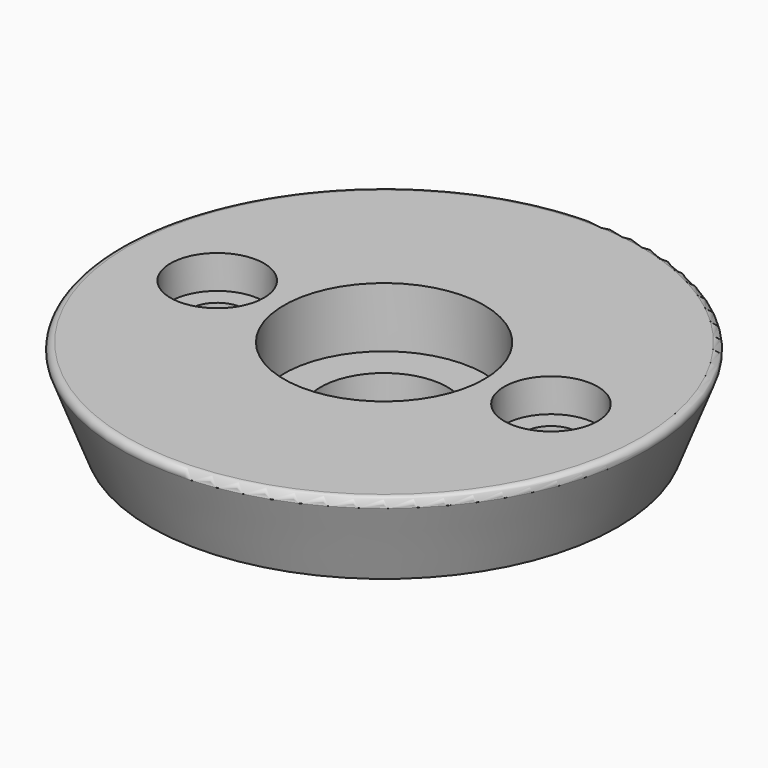
from build123d import *

# Parameters (mm, degrees)
SKETCH_R        = 17.5
SKETCH001_R     = 20
SKETCH002_R     = 4.75
POCKET_DEPTH    = 6.501
SKETCH003_R     = 2
POCKET001_DEPTH = 6.501
SKETCH004_R     = 3.5
POCKET002_DEPTH = 2.5
FILLET_R        = 0.5
SKETCH005_R     = 7.5
POCKET003_DEPTH = 4.5


with BuildPart() as part:
    # Sketch (on XY_Plane of Origin) → AdditiveLoft section 0
    with BuildSketch(Plane.XY):
        Circle(SKETCH_R)
    # Sketch001 (on Sketch) → AdditiveLoft section 1
    with BuildSketch(Plane.XY.offset(6.5)):
        Circle(SKETCH001_R)
    loft()

    # Sketch002 (on Face3 of AdditiveLoft) → Pocket (cut, through all)
    with BuildSketch(Plane.XY.offset(6.5)):
        Circle(SKETCH002_R)
    extrude(amount=-POCKET_DEPTH, mode=Mode.SUBTRACT)

    # Sketch003 (on Face1 of Pocket) → Pocket001 (cut, through all)
    with BuildSketch(Plane(origin=(0, 0, 0), x_dir=(1, 0, 0), z_dir=(0, 0, -1))):
        with Locations((-12.5, 0)):
            Circle(SKETCH003_R)
        with Locations((12.5, 0)):
            Circle(SKETCH003_R)
    extrude(amount=-POCKET001_DEPTH, mode=Mode.SUBTRACT)

    # Sketch004 (on Face6 of Pocket001) → Pocket002 (cut)
    with BuildSketch(Plane.XY.offset(6.5)):
        with Locations((-12.5, 0)):
            Circle(SKETCH004_R)
        with Locations((12.5, 0)):
            Circle(SKETCH004_R)
    extrude(amount=-POCKET002_DEPTH, mode=Mode.SUBTRACT)

    # Fillet
    fillet_edges = [part.edges().sort_by_distance(p)[0] for p in [
        (-20, 0, 6.5),
    ]]
    fillet(fillet_edges, radius=FILLET_R)

    # Sketch005 (on Face4 of Fillet) → Pocket003 (cut)
    with BuildSketch(Plane.XY.offset(6.5)):
        Circle(SKETCH005_R)
    extrude(amount=-POCKET003_DEPTH, mode=Mode.SUBTRACT)


solid = part.part
